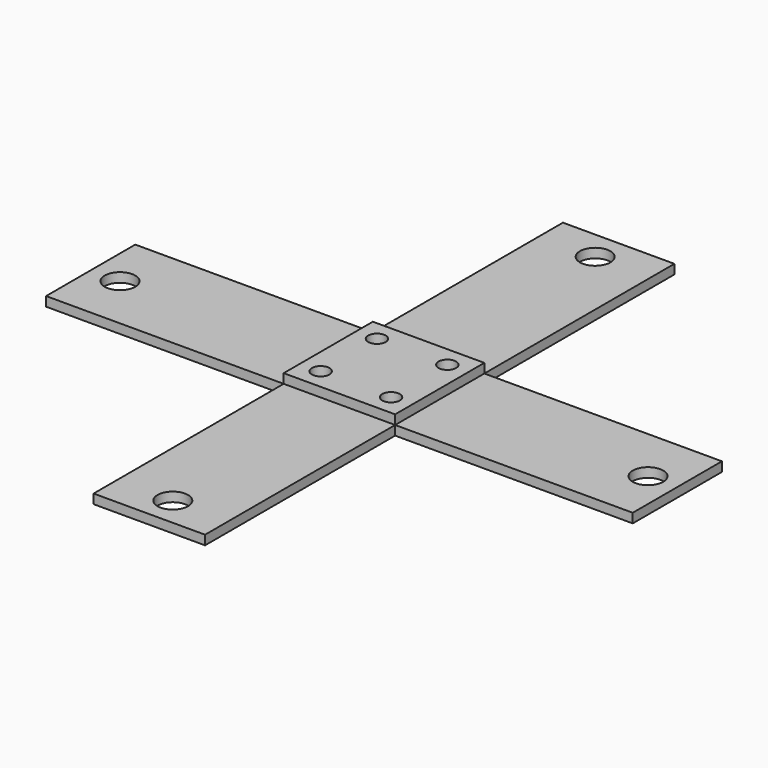
from build123d import *

# Parameters (mm, degrees)
F0_W     = 40.5
F0_H     = 19
F0_R     = 2.6
F1_DEPTH = 1.6
F0_W_2   = 19
F0_H_2   = 40.5
F0_R_2   = 1.5
F2_DEPTH = 3.2
F3_DEPTH = 1.6


with BuildPart() as f1:
    # F0 (on Top) → F1 (new body)
    with BuildSketch(Plane.XY):
        with Locations((-29.75, 0)):
            Rectangle(F0_W, F0_H)
        with Locations((-45, 0)):
            Circle(F0_R, mode=Mode.SUBTRACT)
    extrude(amount=F1_DEPTH)



with BuildPart() as f1b:
    # F0 (on Top) → F1, piece 2 (new body)
    with BuildSketch(Plane.XY):
        with Locations((0, 29.75)):
            Rectangle(F0_W_2, F0_H_2)
        with Locations((0, 45)):
            Circle(F0_R, mode=Mode.SUBTRACT)
    extrude(amount=F1_DEPTH)


with BuildPart() as f1c:
    # F0 (on Top) → F1, piece 3 (new body)
    with BuildSketch(Plane.XY):
        with Locations((29.75, 0)):
            Rectangle(F0_W, F0_H)
        with Locations((45, 0)):
            Circle(F0_R, mode=Mode.SUBTRACT)
    extrude(amount=F1_DEPTH)


with BuildPart() as f1d:
    # F0 (on Top) → F1, piece 4 (new body)
    with BuildSketch(Plane.XY):
        with Locations((0, -29.75)):
            Rectangle(F0_W_2, F0_H_2)
        with Locations((0, -45)):
            Circle(F0_R, mode=Mode.SUBTRACT)
    extrude(amount=F1_DEPTH)


with BuildPart() as f1_1:
    add(f1.part)

    add(f1b.part)  # F2 merges F1b

    add(f1c.part)  # F2 merges F1c

    add(f1d.part)  # F2 merges F1d
    # F0 (on Top) → F2 (join)
    with BuildSketch(Plane.XY):
        Rectangle(F0_W_2, F0_H)
        with Locations((-6, -6)):
            Circle(F0_R_2, mode=Mode.SUBTRACT)
        with Locations((6, -6)):
            Circle(F0_R_2, mode=Mode.SUBTRACT)
        with Locations((-6, 6)):
            Circle(F0_R_2, mode=Mode.SUBTRACT)
        with Locations((6, 6)):
            Circle(F0_R_2, mode=Mode.SUBTRACT)
    extrude(amount=F2_DEPTH)

    # F0 (on Top) → F3 (join)
    with BuildSketch(Plane.XY):
        with Locations((6, -6)):
            Circle(F0_R_2)
        with Locations((6, 6)):
            Circle(F0_R_2)
        with Locations((-6, 6)):
            Circle(F0_R_2)
        with Locations((-6, -6)):
            Circle(F0_R_2)
    extrude(amount=F3_DEPTH)


solid = f1_1.part
